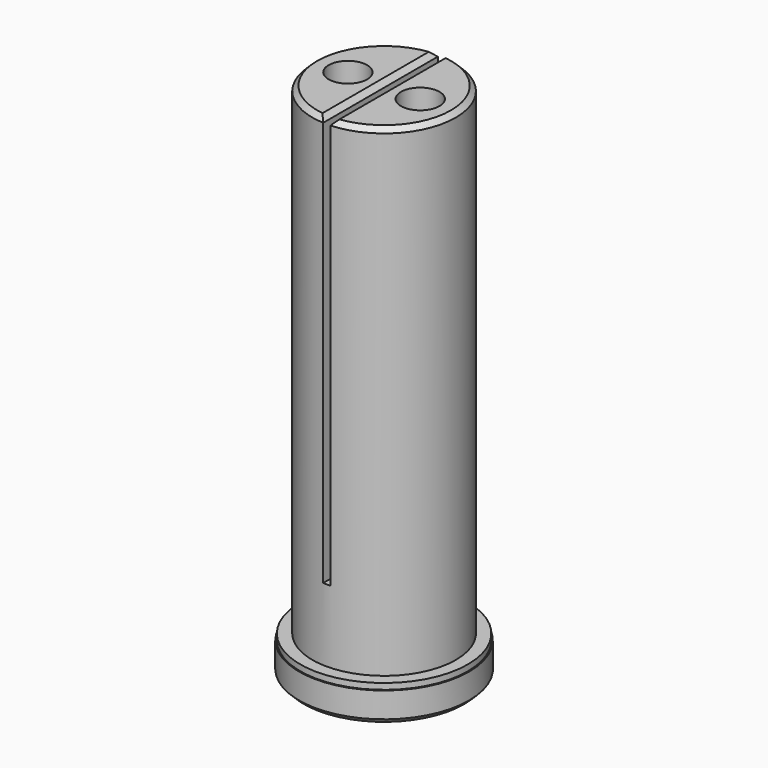
from build123d import *

# Parameters (mm, degrees)
SKETCH014_R     = 7.05
PAD004_DEPTH    = 2.5
SKETCH015_R     = 6.95
PAD005_DEPTH    = 0.5
SKETCH016_R     = 5.95
PAD006_DEPTH    = 40
SKETCH018_R     = 1.9
POCKET010_DEPTH = 5
SKETCH019_R     = 1.6
POCKET011_DEPTH = 43.001
SKETCH020_W     = 0.6
SKETCH020_H     = 16
POCKET012_DEPTH = 34
CHAMFER_SIZE    = 0.4
CHAMFER003_SIZE = 0.4


with BuildPart() as part:
    # Sketch014 → Pad004 (new body)
    with BuildSketch(Plane.XY):
        Circle(SKETCH014_R)
    extrude(amount=PAD004_DEPTH)

    # Sketch015 (on DatumPlane) → Pad005 (join)
    with BuildSketch(Plane.XY.offset(2.5)):
        Circle(SKETCH015_R)
    extrude(amount=PAD005_DEPTH)

    # Sketch016 (on DatumPlane) → Pad006 (join)
    with BuildSketch(Plane.XY.offset(3)):
        Circle(SKETCH016_R)
    extrude(amount=PAD006_DEPTH)

    # Sketch018 (on DatumPlane) → Pocket010 (cut)
    with BuildSketch(Plane.XY):
        with Locations((-3, 0)):
            Circle(SKETCH018_R)
        with Locations((3, 0)):
            Circle(SKETCH018_R)
    extrude(amount=POCKET010_DEPTH, mode=Mode.SUBTRACT)

    # Sketch019 (on DatumPlane) → Pocket011 (cut, through all)
    with BuildSketch(Plane.XY):
        with Locations((-3, 0)):
            Circle(SKETCH019_R)
        with Locations((3, 0)):
            Circle(SKETCH019_R)
    extrude(amount=POCKET011_DEPTH, mode=Mode.SUBTRACT)

    # Sketch020 (on DatumPlane) → Pocket012 (cut)
    with BuildSketch(Plane.XY.offset(43)):
        Rectangle(SKETCH020_W, SKETCH020_H)
    extrude(amount=-POCKET012_DEPTH, mode=Mode.SUBTRACT)

    # Chamfer
    chamfer_edges = [part.edges().sort_by_distance(p)[0] for p in [
        (-0.3, 0, 43),
        (-5.95, 0, 43),
        (0.3, 0, 43),
        (4.312047, -4.099848, 43),
        (4.312047, 4.099848, 43),
    ]]
    chamfer(chamfer_edges, length=CHAMFER_SIZE)

    # Chamfer003
    chamfer003_edges = [part.edges().sort_by_distance(p)[0] for p in [
        (-7.05, 0, 0),
        (-4.9, 0, 0),
        (1.1, 0, 0),
    ]]
    chamfer(chamfer003_edges, length=CHAMFER003_SIZE)


with BuildPart() as part_1:
    # Body003 placement: moved
    add(part.part.moved(Location((0, 0, 22))))


solid = part_1.part
